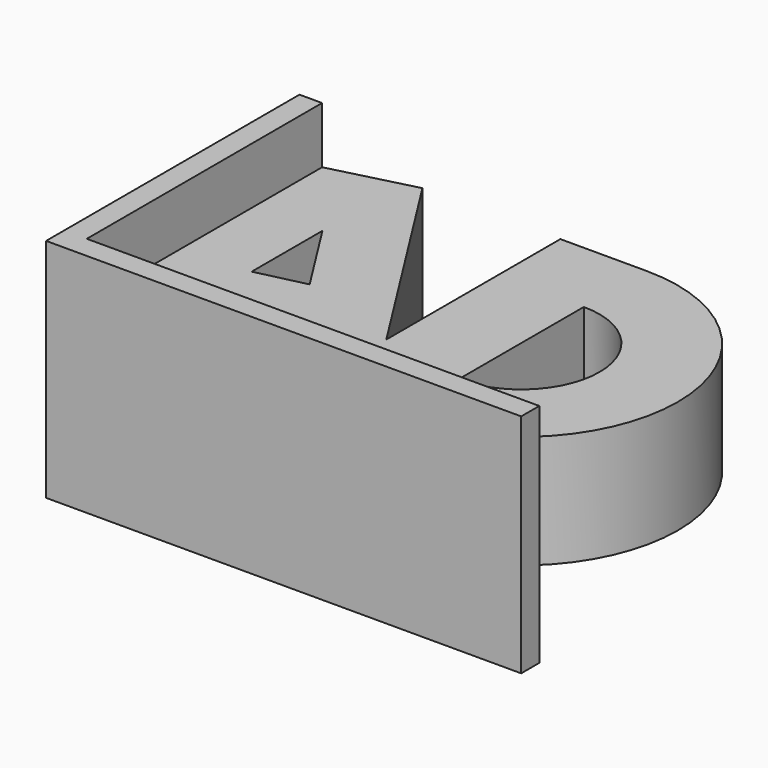
from build123d import *

# Parameters (mm, degrees)
F1_DEPTH = 100
F2_DEPTH = 75
F3_DEPTH = 25


with BuildPart() as f1:
    # F0 (on Top) → F1 (new body)
    with BuildSketch(Plane.XY):
        Polygon((-107.777781, 0), (-97.777781, 0), (102.222219, 0), (102.222219, 10), (38, 10), (-12.328933, 10), (-68.002172, 10), (-97.777781, 10), (-97.777781, 140), (-107.777781, 140), align=None)
    extrude(amount=F1_DEPTH)

    # F0 (on Top) → F2 (join)
    with BuildSketch(Plane.XY):
        with BuildLine():
            Line((-12.328933, 10), (38, 10))
            ThreePointArc((38, 10), (107.714757, 79.714757), (38, 149.429513))
            Line((38, 149.429513), (0, 149.429513))
            Line((0, 149.429513), (0, 53.262483))
            Line((0, 53.262483), (-60.966311, 149.429513))
            Line((-60.966311, 149.429513), (-97.777781, 140))
            Line((-97.777781, 140), (-97.777781, 10))
            Line((-97.777781, 10), (-68.002172, 10))
            Line((-68.002172, 10), (-68.002172, 35.399918))
            Line((-68.002172, 35.399918), (-33.959807, 44.120105))
            Line((-33.959807, 44.120105), (-12.328933, 10))
        make_face()
        Polygon((-46.412745, 68.920866), (-68.002172, 63.875206), (-68.002172, 102.975592), align=None, mode=Mode.SUBTRACT)
        with BuildLine():
            Line((38, 45.601577), (38, 114.87817))
            ThreePointArc((38, 114.87817), (72.638297, 80.239873), (38, 45.601577))
        make_face(mode=Mode.SUBTRACT)
    extrude(amount=F2_DEPTH)

    # F0 (on Top) → F3 (cut)
    with BuildSketch(Plane.XY):
        with BuildLine():
            Line((-12.328933, 10), (38, 10))
            ThreePointArc((38, 10), (107.714757, 79.714757), (38, 149.429513))
            Line((38, 149.429513), (0, 149.429513))
            Line((0, 149.429513), (0, 53.262483))
            Line((0, 53.262483), (-60.966311, 149.429513))
            Line((-60.966311, 149.429513), (-97.777781, 140))
            Line((-97.777781, 140), (-97.777781, 10))
            Line((-97.777781, 10), (-68.002172, 10))
            Line((-68.002172, 10), (-68.002172, 35.399918))
            Line((-68.002172, 35.399918), (-33.959807, 44.120105))
            Line((-33.959807, 44.120105), (-12.328933, 10))
        make_face()
        Polygon((-46.412745, 68.920866), (-68.002172, 63.875206), (-68.002172, 102.975592), align=None, mode=Mode.SUBTRACT)
        with BuildLine():
            Line((38, 45.601577), (38, 114.87817))
            ThreePointArc((38, 114.87817), (72.638297, 80.239873), (38, 45.601577))
        make_face(mode=Mode.SUBTRACT)
    extrude(amount=F3_DEPTH, mode=Mode.SUBTRACT)


solid = f1.part
